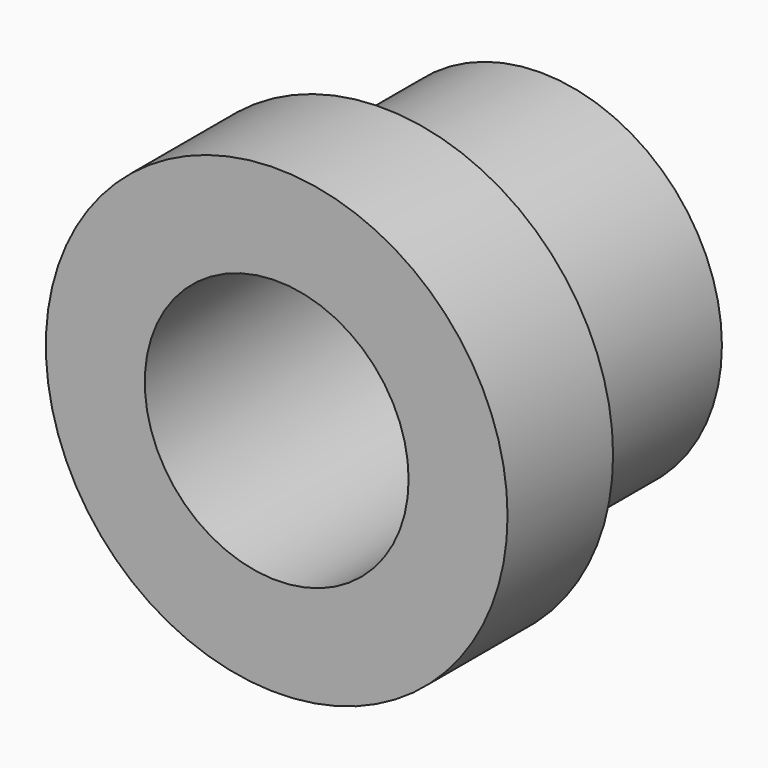
from build123d import *

# Parameters (mm, degrees)
F0_R     = 14
F0_R_2   = 11
F0_R_3   = 8
F1_DEPTH = 8
F2_DEPTH = 20


with BuildPart() as f1:
    # F0 (on Front) → F1 (new body)
    with BuildSketch(Plane.XZ):
        Circle(F0_R)
        Circle(F0_R_2, mode=Mode.SUBTRACT)
        Circle(F0_R_2)
        Circle(F0_R_3, mode=Mode.SUBTRACT)
    extrude(amount=-F1_DEPTH)

    # F0 (on Front) → F2 (join)
    with BuildSketch(Plane.XZ):
        Circle(F0_R_2)
        Circle(F0_R_3, mode=Mode.SUBTRACT)
    extrude(amount=-F2_DEPTH)


solid = f1.part
